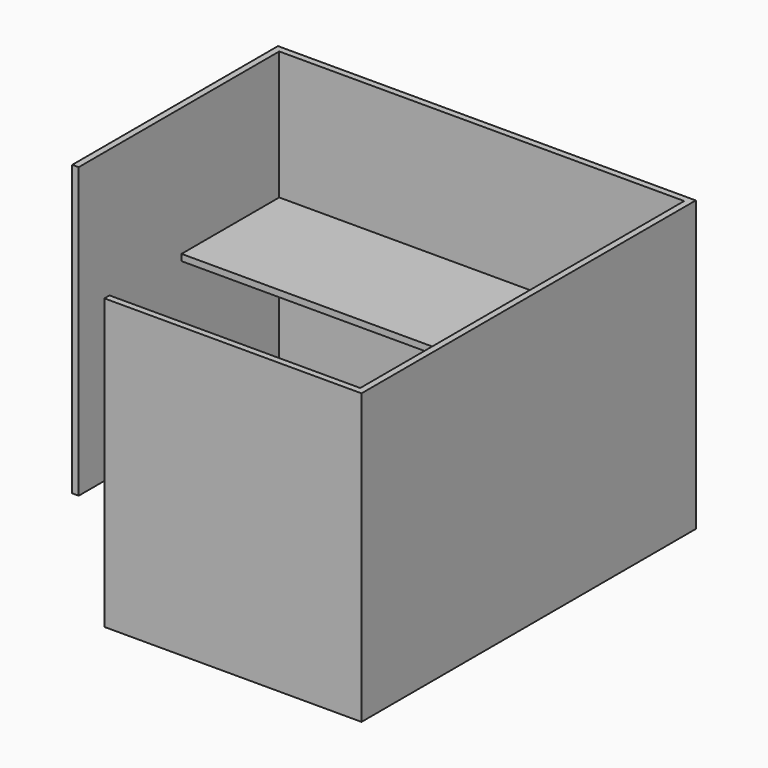
from build123d import *

# Parameters (mm, degrees)
F0_W     = 1981.2
F0_H     = 1981.2
F1_DEPTH = 1371.6
F3_DEPTH = 1524
F5_DEPTH = 609.6
F7_DEPTH = 731.52


with BuildPart() as f1:
    # F0 (on Top) → F1 (new body)
    with BuildSketch(Plane.XY):
        with Locations((990.6, 990.6)):
            Rectangle(F0_W, F0_H)
    extrude(amount=F1_DEPTH)

    # F2 (on face) → F3 (cut)
    with BuildSketch(Plane.XY.offset(1371.6)):
        Polygon((1371.6, 465.324644), (1371.6, 1371.6), (30.48, 1371.6), (30.48, 762), (0, 762), (0, 0), (762, 0), (762, 30.48), (1371.6, 30.48), align=None)
    extrude(amount=-F3_DEPTH, mode=Mode.SUBTRACT)

    # F4 (on face) → F5 (cut)
    with BuildSketch(Plane.XY.offset(1371.6)):
        Polygon((30.48, 1950.72), (30.48, 1371.6), (1371.6, 1371.6), (1371.6, 30.48), (1950.72, 30.48), (1950.72, 1950.72), align=None)
    extrude(amount=-F5_DEPTH, mode=Mode.SUBTRACT)

    # F6 (on face) → F7 (cut)
    with BuildSketch(Plane(origin=(0, 0, 0), x_dir=(1, 0, 0), z_dir=(0, 0, -1))):
        Polygon((1371.6, -1371.6), (30.48, -1371.6), (30.48, -1950.72), (1950.72, -1950.72), (1950.72, -30.48), (1371.6, -30.48), align=None)
    extrude(amount=-F7_DEPTH, mode=Mode.SUBTRACT)


solid = f1.part
